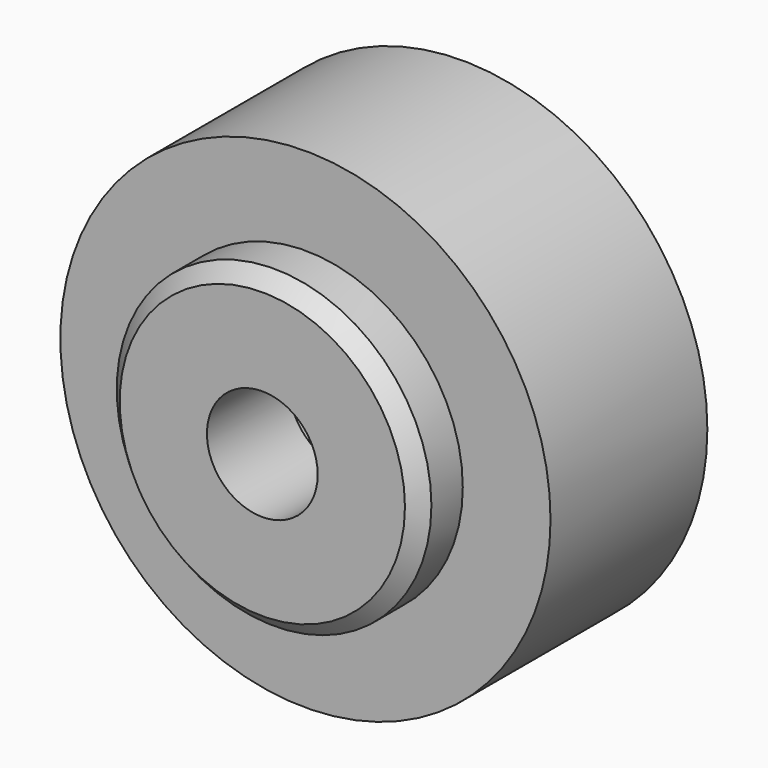
from build123d import *

# Parameters (mm, degrees)
F0_R     = 12.7
F0_R_2   = 10.16
F0_R_3   = 8.1534
F0_R_4   = 2.8702
F1_DEPTH = 10.16
F2_DEPTH = 12.954
F3_DEPTH = 2.54
F4_DEPTH = 7.62
F5_SIZE  = 0.762


with BuildPart() as f1:
    # F0 (on Front) → F1 (new body)
    with BuildSketch(Plane.XZ):
        Circle(F0_R)
        Circle(F0_R_2, mode=Mode.SUBTRACT)
        Circle(F0_R_2)
        Circle(F0_R_3, mode=Mode.SUBTRACT)
        Circle(F0_R_3)
        Polygon((-3.299791, 5.425082), (3.048363, 5.570244), (6.348154, 0.145162), (3.299791, -5.425082), (-3.048363, -5.570244), (-6.348154, -0.145162), align=None, mode=Mode.SUBTRACT)
        Polygon((6.348154, 0.145162), (3.048363, 5.570244), (-3.299791, 5.425082), (-6.348154, -0.145162), (-3.048363, -5.570244), (3.299791, -5.425082), align=None)
        Circle(F0_R_4, mode=Mode.SUBTRACT)
    extrude(amount=F1_DEPTH)

    # F0 (on Front) → F2 (join)
    with BuildSketch(Plane.XZ):
        Circle(F0_R_3)
        Polygon((-3.299791, 5.425082), (3.048363, 5.570244), (6.348154, 0.145162), (3.299791, -5.425082), (-3.048363, -5.570244), (-6.348154, -0.145162), align=None, mode=Mode.SUBTRACT)
        Polygon((6.348154, 0.145162), (3.048363, 5.570244), (-3.299791, 5.425082), (-6.348154, -0.145162), (-3.048363, -5.570244), (3.299791, -5.425082), align=None)
        Circle(F0_R_4, mode=Mode.SUBTRACT)
    extrude(amount=F2_DEPTH)

    # F0 (on Front) → F3 (cut)
    with BuildSketch(Plane.XZ):
        Circle(F0_R_2)
        Circle(F0_R_3, mode=Mode.SUBTRACT)
        Circle(F0_R_3)
        Polygon((-3.299791, 5.425082), (3.048363, 5.570244), (6.348154, 0.145162), (3.299791, -5.425082), (-3.048363, -5.570244), (-6.348154, -0.145162), align=None, mode=Mode.SUBTRACT)
        Polygon((6.348154, 0.145162), (3.048363, 5.570244), (-3.299791, 5.425082), (-6.348154, -0.145162), (-3.048363, -5.570244), (3.299791, -5.425082), align=None)
        Circle(F0_R_4, mode=Mode.SUBTRACT)
    extrude(amount=F3_DEPTH, mode=Mode.SUBTRACT)

    # F0 (on Front) → F4 (cut)
    with BuildSketch(Plane.XZ):
        Polygon((6.348154, 0.145162), (3.048363, 5.570244), (-3.299791, 5.425082), (-6.348154, -0.145162), (-3.048363, -5.570244), (3.299791, -5.425082), align=None)
        Circle(F0_R_4, mode=Mode.SUBTRACT)
    extrude(amount=F4_DEPTH, mode=Mode.SUBTRACT)

    # F5
    f5_edges = [f1.edges().sort_by_distance(p)[0] for p in [
        (-8.1534, -12.954, 0),
    ]]
    chamfer(f5_edges, length=F5_SIZE)


solid = f1.part
